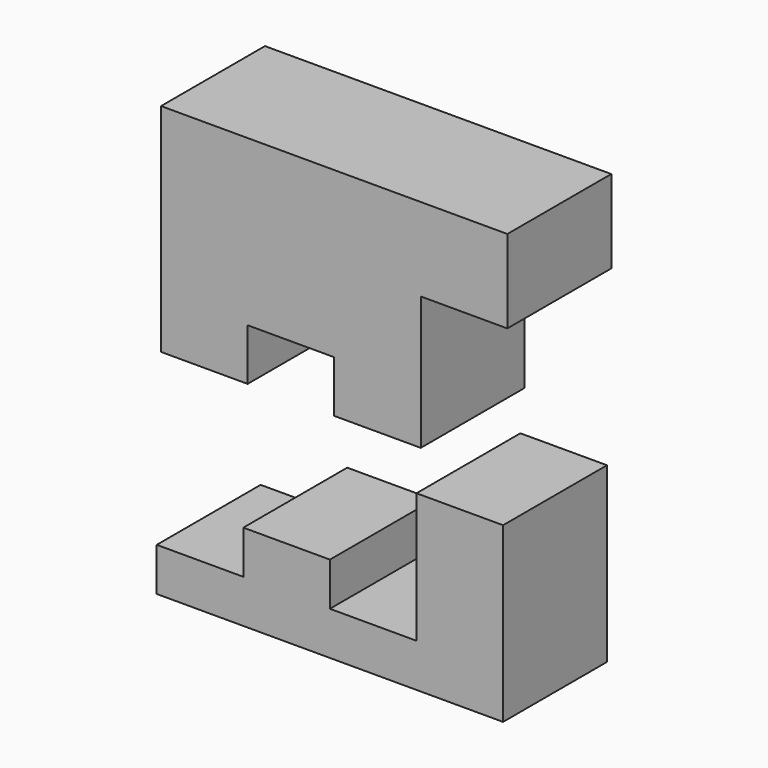
from build123d import *

# Parameters (mm, degrees)
F1_DEPTH = 30
F3_DEPTH = 30


with BuildPart() as f1:
    # F0 (on Front) → F1 (new body)
    with BuildSketch(Plane.XZ):
        Polygon((32.357318, 50), (-47.642682, 50), (-47.642682, 0), (-27.642682, 0), (-27.642682, 11.931819), (-7.642682, 11.931819), (-7.642682, 0), (12.357318, 0), (12.357318, 30.795455), (32.357318, 30.795455), align=None)
    extrude(amount=F1_DEPTH)


with BuildPart() as f3:
    # F2 (on Front) → F3 (new body)
    with BuildSketch(Plane.XZ):
        Polygon((31.363637, -9.547402), (11.363637, -9.547402), (11.363637, -39.547402), (-8.636363, -39.547402), (-8.636363, -29.547402), (-28.636363, -29.547402), (-28.636363, -39.547402), (-48.636363, -39.547402), (-48.636363, -49.547402), (31.363637, -49.547402), align=None)
    extrude(amount=F3_DEPTH)


solid = Compound([f1.part, f3.part])
